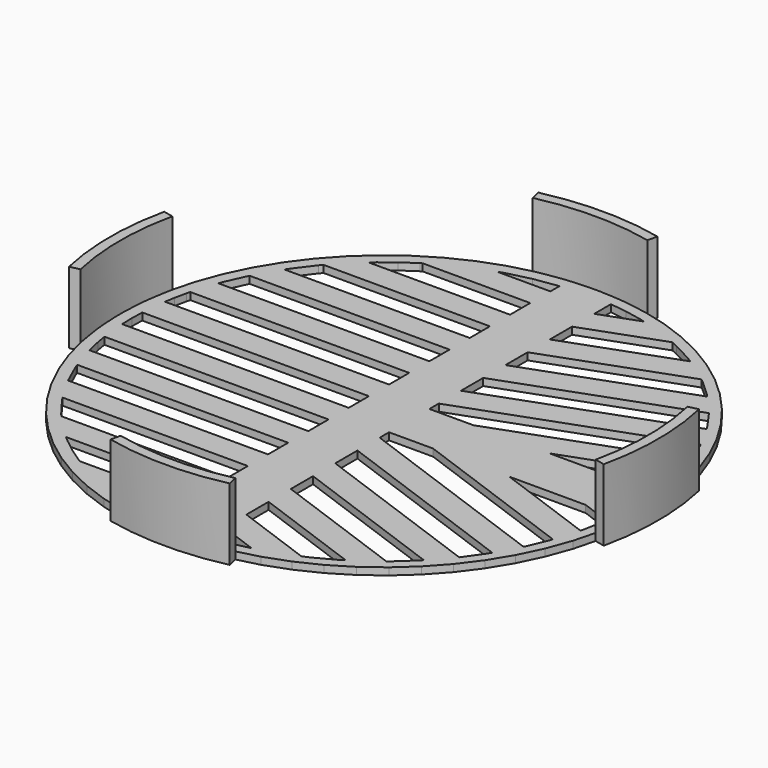
from build123d import *

# Parameters (mm, degrees)
F1_DEPTH = 1
F3_DEPTH = 10


with BuildPart() as f1:
    # F0 (on Top) → F1 (new body)
    with BuildSketch(Plane.XY):
        Polygon((3.762239, 36.610528), (-0.000106, 36.799773), (-3.762451, 36.610528), (-7.416203, 36.052321), (-10.942628, 35.146106), (-14.32423, 33.907762), (-17.540433, 32.358878), (-20.575806, 30.515332), (-23.407901, 28.39681), (-26.021189, 26.021094), (-28.396779, 23.407869), (-30.515682, 20.575552), (-32.358942, 17.540655), (-33.907635, 14.324452), (-35.146233, 10.942818), (-36.052384, 7.416394), (-36.610497, 3.762324), (-36.799995, -2.1e-05), (-36.610497, -3.762049), (-36.052384, -7.4158), (-35.146233, -10.942225), (-33.907635, -14.323859), (-32.358942, -17.540379), (-30.515682, -20.575626), (-28.396779, -23.407688), (-26.021189, -26.021008), (-23.407901, -28.396566), (-20.575806, -30.515469), (-17.540433, -32.358729), (-14.32423, -33.907422), (-10.942628, -35.144306), (-7.416203, -36.052172), (-3.762451, -36.610284), (-0.000106, -36.799783), (3.762239, -36.610284), (7.415991, -36.052172), (10.942416, -35.144306), (14.324049, -33.907422), (17.540252, -32.358729), (20.575785, -30.515469), (23.407466, -28.396566), (26.021008, -26.021008), (28.396407, -23.407688), (30.515565, -20.575626), (32.358475, -17.540379), (33.907359, -14.323859), (35.144433, -10.942225), (36.051918, -7.4158), (36.610125, -3.762049), (36.800005, -2.1e-05), (36.610125, 3.762324), (36.051918, 7.416394), (35.144433, 10.942818), (33.907359, 14.324452), (32.358475, 17.540655), (30.515565, 20.575552), (28.396407, 23.407869), (26.021008, 26.021094), (23.407466, 28.39681), (20.575785, 30.515332), (17.540252, 32.358878), (14.324049, 33.907762), (10.942416, 35.146106), (7.415991, 36.052321), align=None)
        Polygon((-22.608565, -26.927127), (-23.242502, -26.368983), (-3.516052, -26.368983), (-3.516052, -29.884961), (-18.520662, -29.884961), (-18.772173, -29.733375), (-20.739458, -28.393105), align=None, mode=Mode.SUBTRACT)
        Polygon((-10.041494, -33.704143), (-10.980413, -33.400971), (-3.516052, -33.400971), (-3.516052, -34.982369), (-3.595434, -34.977193), (-6.871967, -34.487952), align=None, mode=Mode.SUBTRACT)
        Polygon((-28.975594, -19.919271), (-29.35802, -19.336932), (-3.516052, -19.336932), (-3.516052, -22.852973), (-26.708565, -22.852973), (-27.063431, -22.444701), align=None, mode=Mode.SUBTRACT)
        Polygon((-34.529538, -6.654695), (-34.762061, -5.273147), (-3.516052, -5.273147), (-3.516052, -8.789093), (-34.042011, -8.789093), (-34.183246, -8.25851), align=None, mode=Mode.SUBTRACT)
        Polygon((-32.720697, -12.892459), (-32.936042, -12.305039), (-3.516052, -12.305039), (-3.516052, -15.820986), (-31.406274, -15.820986), (-31.409735, -15.815905), align=None, mode=Mode.SUBTRACT)
        Polygon((3.51584, -35.158119), (3.51584, -32.253629), (8.894066, -34.210595), (8.132643, -34.405269), (5.849961, -34.856629), align=None, mode=Mode.SUBTRACT)
        Polygon((3.51584, -28.382786), (3.51584, -24.510196), (18.69096, -30.033118), (17.960655, -30.484447), (15.305834, -31.89362), (14.349769, -32.326024), align=None, mode=Mode.SUBTRACT)
        Polygon((3.51584, -20.637638), (3.51584, -16.76689), (25.316422, -24.701409), (25.022077, -25.021855), (22.828937, -27.035657), (22.289463, -27.471523), align=None, mode=Mode.SUBTRACT)
        Polygon((3.51584, -12.894047), (3.51584, -9.023426), (30.041501, -18.677116), (29.698892, -19.233736), (27.97283, -21.669497), (27.893449, -21.767707), align=None, mode=Mode.SUBTRACT)
        Polygon((3.51584, -5.1509), (3.51584, -3.515967), (9.658982, -3.515967), (33.228809, -12.094838), (33.07862, -12.523813), (31.89362, -15.305961), (31.819637, -15.454245), align=None, mode=Mode.SUBTRACT)
        Polygon((34.284895, -8.606516), (20.296681, -3.515967), (30.935967, -3.515967), (34.983766, -4.988645), (34.973605, -5.076917), (34.405237, -8.13277), align=None, mode=Mode.SUBTRACT)
        Polygon((-35.118672, 1.697146), (-35.115243, 1.758746), (-3.516052, 1.758746), (-3.516052, -1.756883), (-35.115243, -1.756883), (-35.118672, -1.696871), (-35.159982, -2.1e-05), align=None, mode=Mode.SUBTRACT)
        Polygon((-34.183246, 8.258786), (-34.042011, 8.789369), (-3.516052, 8.789369), (-3.516052, 5.27501), (-34.762061, 5.27501), (-34.529538, 6.656558), align=None, mode=Mode.SUBTRACT)
        Polygon((-31.409735, 15.815863), (-31.406274, 15.821261), (-3.516052, 15.821261), (-3.516052, 12.304997), (-32.936042, 12.304997), (-32.720697, 12.892417), align=None, mode=Mode.SUBTRACT)
        Polygon((-27.063431, 22.446723), (-26.708565, 22.852836), (-3.516052, 22.852836), (-3.516052, 19.337208), (-29.35802, 19.337208), (-28.975594, 19.919547), align=None, mode=Mode.SUBTRACT)
        Polygon((-18.772173, 29.733587), (-18.520662, 29.885364), (-3.516052, 29.885364), (-3.516052, 26.3691), (-23.242502, 26.3691), (-22.608565, 26.927308), (-20.739458, 28.395223), align=None, mode=Mode.SUBTRACT)
        Polygon((-3.595434, 34.977501), (-3.516052, 34.984169), (-3.516052, 33.400993), (-10.980413, 33.400993), (-10.041494, 33.704229), (-6.871967, 34.487878), align=None, mode=Mode.SUBTRACT)
        Polygon((3.51584, 5.150858), (31.819637, 15.454203), (31.89362, 15.307825), (33.07862, 12.524089), (33.228809, 12.095114), (9.658982, 3.516243), (3.51584, 3.516243), align=None, mode=Mode.SUBTRACT)
        Polygon((3.51584, 12.89591), (27.893449, 21.767538), (27.97283, 21.671646), (29.698892, 19.233695), (30.041501, 18.677392), (3.51584, 9.023384), align=None, mode=Mode.SUBTRACT)
        Polygon((20.296681, 3.516243), (34.284895, 8.606792), (34.405237, 8.133046), (34.973605, 5.076875), (34.983766, 4.990826), (30.935967, 3.516243), align=None, mode=Mode.SUBTRACT)
        Polygon((3.51584, 20.639692), (22.289463, 27.471545), (22.828937, 27.035901), (25.022077, 25.021845), (25.316422, 24.70178), (3.51584, 16.767166), align=None, mode=Mode.SUBTRACT)
        Polygon((3.51584, 32.253778), (3.51584, 35.160077), (5.849961, 34.856842), (8.132643, 34.407227), (8.894066, 34.212267), align=None, mode=Mode.SUBTRACT)
        Polygon((3.51584, 28.382839), (14.349769, 32.326173), (15.305834, 31.893705), (17.960655, 30.484532), (18.69096, 30.03333), (3.51584, 24.510313), align=None, mode=Mode.SUBTRACT)
    extrude(amount=F1_DEPTH)


with BuildPart() as f3:
    # F2 (on Top) → F3 (new body)
    with BuildSketch(Plane.XY):
        with BuildLine():
            Line((-8.304348, 37.286429), (-8, 35.919911))
            ThreePointArc((-8, 35.919911), (0, 36.8), (8, 35.919911))
            Line((8, 35.919911), (8.304348, 37.286429))
            ThreePointArc((8.304348, 37.286429), (0, 38.2), (-8.304348, 37.286429))
        make_face()
        with BuildLine():
            Line((37.286429, 8.304348), (35.919911, 8))
            ThreePointArc((35.919911, 8), (36.8, 0), (35.919911, -8))
            Line((35.919911, -8), (37.286429, -8.304348))
            ThreePointArc((37.286429, -8.304348), (38.2, 0), (37.286429, 8.304348))
        make_face()
        with BuildLine():
            Line((8.304348, -37.286429), (8, -35.919911))
            ThreePointArc((8, -35.919911), (0, -36.8), (-8, -35.919911))
            Line((-8, -35.919911), (-8.304348, -37.286429))
            ThreePointArc((-8.304348, -37.286429), (0, -38.2), (8.304348, -37.286429))
        make_face()
        with BuildLine():
            Line((-37.286429, -8.304348), (-35.919911, -8))
            ThreePointArc((-35.919911, -8), (-36.8, 0), (-35.919911, 8))
            Line((-35.919911, 8), (-37.286429, 8.304348))
            ThreePointArc((-37.286429, 8.304348), (-38.2, 0), (-37.286429, -8.304348))
        make_face()
    extrude(amount=F3_DEPTH)


solid = Compound([f1.part, f3.part])
